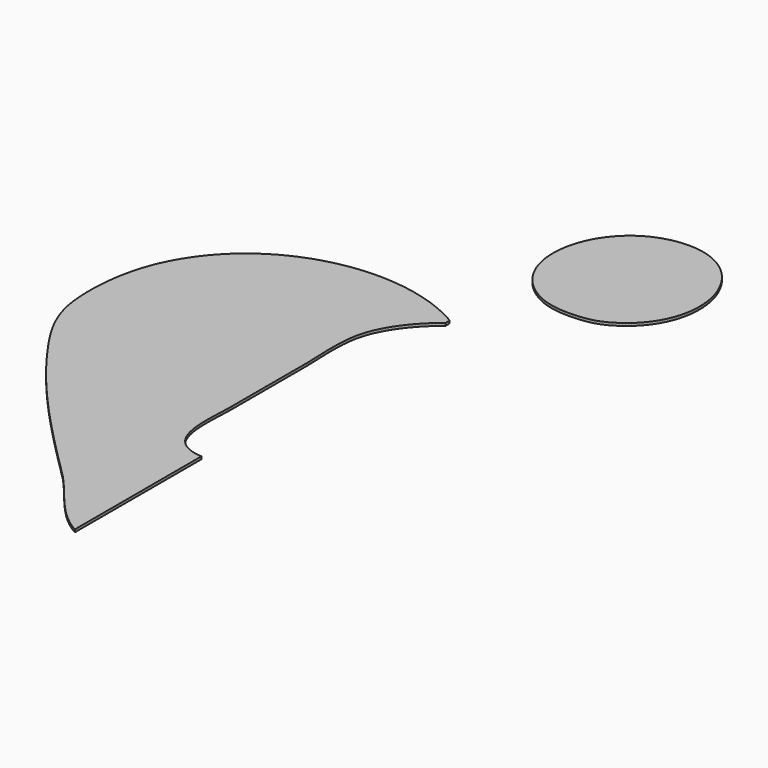
from build123d import *

# Parameters (mm, degrees)
F1_DEPTH = 25.4


with BuildPart() as f1:
    # F0 (on Top) → F1 (new body)
    with BuildSketch(Plane.XY):
        Polygon((-62.09538, 3777.15018), (-84.5185, 3774.14028), (-106.57586, 3770.5284), (-128.27, 3766.32216), (-149.59584, 3761.53426), (-170.55338, 3756.17232), (-191.14262, 3750.24904), (-211.35594, 3743.77712), (-231.19334, 3736.76926), (-250.65228, 3729.23562), (-269.73276, 3721.1889), (-288.4297, 3712.63926), (-306.74056, 3703.5994), (-324.66534, 3694.07948), (-342.19896, 3684.0922), (-359.34142, 3673.65026), (-376.08764, 3662.76382), (-392.43762, 3651.44812), (-408.38628, 3639.70824), (-423.93616, 3627.55942), (-439.07964, 3615.01436), (-453.81672, 3602.08576), (-468.14486, 3588.78124), (-482.06152, 3575.1135), (-495.5667, 3561.09524), (-508.65278, 3546.73916), (-521.3223, 3532.05542), (-533.57018, 3517.05672), (-545.39388, 3501.75322), (-556.7934, 3486.15762), (-567.76366, 3470.28008), (-578.30466, 3454.13584), (-588.41386, 3437.73252), (-598.08618, 3421.08282), (-607.32162, 3404.19944), (-616.11764, 3387.09508), (-624.46916, 3369.7799), (-632.37872, 3352.26406), (-639.84124, 3334.5628), (-646.85164, 3316.68374), (-653.41246, 3298.63958), (-659.51862, 3280.44556), (-665.17012, 3262.1093), (-670.35934, 3243.64604), (-675.08882, 3225.0634), (-679.35602, 3206.37408), (-683.15586, 3187.59332), (-686.48834, 3168.7262), (-689.34838, 3149.7905), (-691.73598, 3130.79638), (-693.6486, 3111.754), (-695.08116, 3092.67606), (-696.0362, 3073.57272), (-696.50864, 3054.45668), (-696.4934, 3035.34064), (-695.99302, 3016.23476), (-695.00242, 2997.15174), (-693.51906, 2978.10428), (-691.54294, 2959.1), (-689.06644, 2940.15414), (-686.09464, 2921.27686), (-682.61992, 2902.48086), (-678.63974, 2883.7763), (-674.1541, 2865.17588), (-669.16046, 2846.6923), (-663.65374, 2828.33572), (-657.63394, 2810.1163), (-651.09852, 2792.04928), (-644.04494, 2774.14482), (-636.47066, 2756.41308), (-628.37568, 2738.86676), (-619.75238, 2721.51856), (-610.6033, 2704.37864), (-600.92082, 2687.4597), (-590.70748, 2670.77444), (-579.96074, 2654.33048), (-568.67552, 2638.14306), (-556.85182, 2622.22234), (-544.48456, 2606.58102), (-531.5712, 2591.2318), (-518.11428, 2576.1823), (-504.10618, 2561.44776), (-489.54944, 2547.03834), (-474.43644, 2532.96674), (-458.76718, 2519.24312), (-442.53912, 2505.88018), (-425.74972, 2492.88808), (-408.39644, 2480.28206), (-390.47928, 2468.06974), (-371.99316, 2456.26382), (-352.93554, 2444.87954), (-333.30642, 2433.92452), (-313.10072, 2423.41146), (-290.22802, 2412.63678), (-266.73302, 2402.93398), (-242.67922, 2394.2675), (-218.12758, 2386.60686), (-193.13652, 2379.91904), (-167.76446, 2374.1761), (-142.0749, 2369.33994), (-116.12118, 2365.38516), (-89.96934, 2362.2762), (-63.67526, 2359.98004), (-37.29736, 2358.46874), (-10.90168, 2357.70928), (15.45844, 2357.6661), (41.72204, 2358.31126), (67.82562, 2359.61174), (93.7133, 2361.53706), (119.32666, 2364.05166), (144.59966, 2367.1276), (169.4815, 2370.73186), (194.98564, 2375.4334), (219.93352, 2381.43542), (244.348, 2388.67442), (268.25448, 2397.09452), (291.67582, 2406.63222), (314.63996, 2417.23164), (337.1723, 2428.82928), (359.29316, 2441.36926), (381.03302, 2454.78808), (402.4122, 2469.02732), (423.46118, 2484.0311), (440.87034, 2497.2264), (457.6953, 2510.76714), (473.9386, 2524.64062), (489.60278, 2538.83668), (504.69292, 2553.34516), (519.21156, 2568.1559), (533.16124, 2583.25366), (546.54958, 2598.63336), (559.37658, 2614.27976), (571.64478, 2630.18524), (583.3618, 2646.3371), (594.52764, 2662.72518), (605.14992, 2679.33678), (615.22864, 2696.16428), (624.76634, 2713.19752), (633.77064, 2730.42126), (642.24408, 2747.82788), (650.18666, 2765.40468), (657.60854, 2783.14404), (664.50718, 2801.03072), (670.88766, 2819.05964), (676.75506, 2837.21302), (682.11446, 2855.48578), (686.96586, 2873.86522), (691.31434, 2892.34118), (695.16244, 2910.90096), (698.51524, 2929.5344), (701.37528, 2948.23134), (703.74764, 2966.98162), (705.63486, 2985.77254), (707.04202, 3004.59394), (707.96912, 3023.4382), (708.42378, 3042.29008), (708.406, 3061.13942), (707.9234, 3079.9786), (706.97598, 3098.79492), (705.56882, 3117.57568), (703.707, 3136.31072), (701.39052, 3154.99242), (698.62446, 3173.60808), (695.4139, 3192.14754), (691.76138, 3210.59556), (687.67198, 3228.9496), (683.1457, 3247.19188), (678.19016, 3265.31224), (672.80536, 3283.30306), (666.99638, 3301.15164), (660.7683, 3318.85036), (654.12366, 3336.38144), (647.065, 3353.74234), (639.5974, 3370.91528), (631.72594, 3387.89264), (623.44808, 3404.66426), (614.77398, 3421.21744), (605.70364, 3437.54456), (596.24214, 3453.63038), (586.39202, 3469.46728), (576.15836, 3485.0451), (565.5437, 3500.3486), (554.55058, 3515.3727), (543.18662, 3530.10216), (531.44928, 3544.52682), (519.34872, 3558.63906), (506.8824, 3572.42618), (494.05794, 3585.87548), (480.87788, 3598.9768), (467.3473, 3611.72252), (453.4662, 3624.09994), (439.23966, 3636.09636), (424.67276, 3647.70416), (409.76804, 3658.9081), (394.53058, 3669.7031), (378.96038, 3680.07392), (363.06506, 3690.01294), (346.84462, 3699.50746), (330.30668, 3708.54478), (313.45124, 3717.11982), (296.28338, 3725.2148), (278.80564, 3732.82464), (261.0231, 3739.93664), (242.9383, 3746.5381), (224.55632, 3752.61886), (205.8797, 3758.1713), (186.91098, 3763.18272), (167.65778, 3767.64042), (148.11756, 3771.53424), (128.29794, 3774.85656), (108.20146, 3777.59468), (87.8332, 3779.7359), (67.19316, 3781.27006), (46.28896, 3782.18954), (25.12314, 3782.4791), (3.69824, 3782.13112), (-17.9832, 3781.13544), (-39.9161, 3779.47682), align=None)
        Polygon((-617.9185, 1651.81026), (-617.9185, 1702.61026), (-637.84988, 1714.0555), (-657.9235, 1725.21118), (-678.13428, 1736.0773), (-698.47714, 1746.65386), (-718.95462, 1756.94086), (-739.55656, 1766.94084), (-760.28296, 1776.64872), (-781.1262, 1786.06958), (-802.08628, 1795.20088), (-823.15558, 1804.04262), (-844.33156, 1812.5948), (-865.61168, 1820.85742), (-886.9934, 1828.83302), (-908.46656, 1836.51906), (-930.0337, 1843.913), (-951.6872, 1851.02246), (-973.42452, 1857.83982), (-995.24312, 1864.37016), (-1017.13538, 1870.61094), (-1039.1013, 1876.56216), (-1061.13326, 1882.22636), (-1083.23126, 1887.59846), (-1105.38768, 1892.68608), (-1127.59998, 1897.4816), (-1149.86562, 1901.9901), (-1172.17952, 1906.21158), (-1194.53914, 1910.14096), (-1216.9394, 1913.78332), (-1239.37522, 1917.13866), (-1261.84152, 1920.20444), (-1284.34084, 1922.98066), (-1306.86302, 1925.46986), (-1329.40552, 1927.67204), (-1351.9658, 1929.58466), (-1374.54132, 1931.20772), (-1397.12446, 1932.54376), (-1419.71268, 1933.59024), (-1442.3009, 1934.3497), (-1464.88912, 1934.82214), (-1487.46972, 1935.00502), (-1510.0427, 1934.90088), (-1532.5979, 1934.50718), (-1555.13786, 1933.82646), (-1577.65242, 1932.85872), (-1600.14412, 1931.60142), (-1622.60534, 1930.0571), (-1645.03354, 1928.22576), (-1667.4211, 1926.10486), (-1689.77056, 1923.69694), (-1712.07176, 1921.002), (-1734.3247, 1918.0175), (-1756.5243, 1914.74598), (-1778.66802, 1911.18744), (-1800.74824, 1907.34188), (-1822.76496, 1903.2093), (-1844.7131, 1898.78716), (-1866.58758, 1894.078), (-1888.38586, 1889.08182), (-1910.10286, 1883.79862), (-1931.7335, 1878.2284), (-1953.27778, 1872.37116), (-1974.73062, 1866.22436), (-1996.0844, 1859.79308), (-2017.34166, 1853.07224), (-2038.49224, 1846.06438), (-2059.5336, 1838.7695), (-2080.46574, 1831.19014), (-2101.28104, 1823.32122), (-2121.97442, 1815.16528), (-2142.54588, 1806.72232), (-2162.99034, 1797.99234), (-2183.30272, 1788.97534), (-2203.48048, 1779.67386), (-2223.516, 1770.08282), (-2243.41182, 1760.20476), (-2263.15778, 1750.04222), (-2282.75388, 1739.59012), (-2302.19504, 1728.85354), (-2321.47618, 1717.82994), (-2340.59476, 1706.51932), (-2359.54824, 1694.92168), (-2378.329, 1683.03956), (-2396.93704, 1670.86788), (-2415.36474, 1658.41172), (-2433.6121, 1645.66854), (-2451.6715, 1632.63834), (-2469.5404, 1619.32112), (-2487.21626, 1605.71942), (-2504.694, 1591.8307), (-2521.96854, 1577.65496), (-2539.03988, 1563.19474), (-2555.89786, 1548.4475), (-2572.54502, 1533.41324), (-2588.97374, 1518.0945), (-2605.18148, 1502.48874), (-2621.16062, 1486.59596), (-2636.9137, 1470.4187), (-2652.4331, 1453.95442), (-2667.71374, 1437.20312), (-2682.75562, 1420.16734), (-2697.55112, 1402.84708), (-2712.0977, 1385.23726), (-2726.39282, 1367.3455), (-2740.42886, 1349.16672), (-2754.20582, 1330.70092), (-2767.71862, 1311.95064), (-2780.96218, 1292.91334), (-2793.93396, 1273.59156), (-2806.62888, 1253.9853), (-2819.04186, 1234.09202), (-2831.1729, 1213.91172), (-2843.01692, 1193.44948), (-2854.5663, 1172.69768), (-2865.82104, 1151.66394), (-2876.77606, 1130.34318), (-2887.42882, 1108.73794), (-2897.7717, 1086.84568), (-2907.8047, 1064.67148), (-2917.5202, 1042.21026), (-2926.66674, 1019.97002), (-2935.44244, 997.40212), (-2943.84984, 974.51926), (-2951.88894, 951.33668), (-2959.56228, 927.8747), (-2966.8724, 904.1511), (-2973.8193, 880.18112), (-2980.40298, 855.98254), (-2986.62852, 831.5706), (-2992.49338, 806.96562), (-2998.0001, 782.18284), (-3003.14868, 757.24004), (-3007.9442, 732.15246), (-3012.38666, 706.94042), (-3016.47352, 681.61916), (-3020.2124, 656.20392), (-3023.59822, 630.71502), (-3026.6386, 605.1677), (-3029.32846, 579.58228), (-3031.67542, 553.97146), (-3033.6744, 528.35302), (-3035.33302, 502.74474), (-3036.64874, 477.16694), (-3037.62156, 451.63232), (-3038.25656, 426.1612), (-3038.55374, 400.76628), (-3038.51564, 375.47042), (-3038.13972, 350.28632), (-3037.43106, 325.2343), (-3036.38966, 300.32706), (-3035.01552, 275.58492), (-3033.31372, 251.02566), (-3031.28172, 226.66452), (-3028.92206, 202.52182), (-3026.23474, 178.61026), (-3022.80066, 152.75052), (-3018.72904, 127.18034), (-3014.04528, 101.88956), (-3008.76208, 76.8731), (-3002.9023, 52.1208), (-2996.47864, 27.6225), (-2989.51396, 3.37312), (-2982.02604, -20.6375), (-2974.02758, -44.41952), (-2965.54398, -67.97548), (-2956.58794, -91.32062), (-2947.17978, -114.45748), (-2937.33728, -137.39622), (-2927.08076, -160.147), (-2916.42546, -182.7149), (-2905.38916, -205.11008), (-2893.98964, -227.3427), (-2882.24976, -249.41784), (-2870.18222, -271.34312), (-2857.80734, -293.13124), (-2845.14544, -314.78728), (-2832.20922, -336.31886), (-2819.02154, -357.73614), (-2805.59764, -379.04674), (-2791.95784, -400.25828), (-2778.11738, -421.38092), (-2764.09912, -442.42228), (-2749.91576, -463.38744), (-2735.59016, -484.2891), (-2721.13756, -505.13488), (-2706.57574, -525.92986), (-2691.92248, -546.6842), (-2677.20064, -567.40806), (-2662.42292, -588.10652), (-2647.6071, -608.78974), (-2632.94622, -629.14784), (-2618.17866, -649.46276), (-2603.3095, -669.73704), (-2588.33874, -689.97068), (-2573.26638, -710.16622), (-2558.0975, -730.31858), (-2542.8321, -750.4303), (-2527.47272, -770.50392), (-2512.0219, -790.5369), (-2496.4771, -810.52924), (-2480.8434, -830.48094), (-2465.12334, -850.39454), (-2449.31692, -870.27004), (-2433.42668, -890.1049), (-2417.45262, -909.90166), (-2401.39728, -929.65778), (-2385.2632, -949.3758), (-2369.05292, -969.05572), (-2352.7639, -988.69754), (-2336.40376, -1008.29872), (-2319.96996, -1027.86434), (-2303.46504, -1047.39186), (-2286.89154, -1066.88128), (-2270.24946, -1086.3326), (-2253.54388, -1105.74582), (-2236.77226, -1125.12348), (-2219.93968, -1144.46304), (-2203.04614, -1163.7645), (-2186.09164, -1183.0304), (-2169.0838, -1202.2582), (-2152.01754, -1221.45044), (-2134.89794, -1240.60712), (-2117.72754, -1259.7257), (-2100.50634, -1278.80872), (-2083.23688, -1297.85618), (-2065.91916, -1316.86808), (-2048.55572, -1335.84188), (-2031.1491, -1354.78266), (-2013.70184, -1373.68788), (-1996.21394, -1392.55754), (-1978.6854, -1411.39164), (-1961.12384, -1430.19018), (-1943.52418, -1448.9557), (-1925.8915, -1467.68566), (-1908.22834, -1486.3826), (-1890.5347, -1505.04398), (-1872.81058, -1523.6698), (-1855.06106, -1542.2626), (-1837.28868, -1560.82238), (-1819.4909, -1579.34914), (-1801.6728, -1597.84034), (-1783.83438, -1616.30106), (-1765.97564, -1634.72622), (-1748.10166, -1653.11836), (-1730.21498, -1671.47748), (-1712.31306, -1689.80358), (-1694.40098, -1708.0992), (-1676.47874, -1726.3618), (-1658.54888, -1744.59138), (-1640.6114, -1762.78794), (-1622.67138, -1780.95402), (-1604.72628, -1799.08708), (-1586.78118, -1817.18712), (-1568.83608, -1835.25922), (-1550.89352, -1853.2983), (-1532.95604, -1871.30436), (-1515.0211, -1889.28248), (-1497.09632, -1907.22758), (-1479.17916, -1925.1422), (-1461.27216, -1943.02634), (-1443.3804, -1960.88), (-1425.4988, -1978.70318), (-1407.63498, -1996.49588), (-1389.78894, -2014.26064), (-1371.96068, -2031.99238), (-1354.15528, -2049.69618), (-1336.3702, -2067.3695), (-1319.3522, -2084.57546), (-1302.43072, -2102.231), (-1285.5956, -2120.3031), (-1268.83414, -2138.75874), (-1252.1311, -2157.55728), (-1235.47632, -2176.66824), (-1218.85456, -2196.05352), (-1202.25566, -2215.67502), (-1185.66692, -2235.49972), (-1169.0731, -2255.49206), (-1152.4615, -2275.61648), (-1135.82196, -2295.83742), (-1119.1367, -2316.11678), (-1102.3981, -2336.419), (-1085.59092, -2356.71106), (-1068.705, -2376.9574), (-1051.72256, -2397.11992), (-1034.63344, -2417.16306), (-1017.42494, -2437.0538), (-1000.08182, -2456.75404), (-982.59646, -2476.22822), (-964.95108, -2495.44078), (-947.13552, -2514.35616), (-929.13708, -2532.9388), (-910.94052, -2551.15568), (-892.53314, -2568.96616), (-873.90478, -2586.33722), (-855.0402, -2603.23076), (-835.92924, -2619.6163), (-816.55666, -2635.4532), (-796.90976, -2650.7059), (-776.97584, -2665.34392), (-756.74474, -2679.32662), (-736.19868, -2692.61844), (-715.3275, -2705.18382), (-694.1185, -2716.98974), (-694.1185, -1192.98974), (-720.76818, -1190.62754), (-746.00816, -1187.07916), (-769.87908, -1182.38524), (-792.41904, -1176.58134), (-813.6636, -1169.70048), (-833.64832, -1161.7833), (-852.4113, -1152.86028), (-869.99064, -1142.97206), (-886.4219, -1132.15166), (-901.74064, -1120.43464), (-915.98496, -1107.86164), (-929.19296, -1094.46314), (-941.4002, -1080.27724), (-952.64224, -1065.3395), (-962.95972, -1049.68548), (-972.38566, -1033.35328), (-980.9607, -1016.37592), (-988.71786, -998.79404), (-995.69778, -980.63812), (-1001.93348, -961.94626), (-1007.46306, -942.75402), (-1012.32462, -923.09696), (-1016.55626, -903.01318), (-1020.191, -882.53824), (-1023.26948, -861.70516), (-1025.82472, -840.55204), (-1027.89736, -819.11698), (-1029.52296, -797.43046), (-1030.73708, -775.53312), (-1031.57782, -753.45798), (-1032.08074, -731.24314), (-1032.28648, -708.92416), (-1032.22806, -686.5366), (-1031.94358, -664.11602), (-1031.4686, -641.69798), (-1030.84376, -619.31804), (-1030.10208, -597.0143), (-1029.28166, -574.82232), (-1028.4206, -552.77766), (-1027.55192, -530.91588), (-1026.7188, -509.27), (-1025.95426, -487.88066), (-1025.29386, -466.78342), (-1024.77824, -446.0113), (-1024.44042, -425.6024), (-1024.3185, -405.58974), (-1024.3185, 458.01026), (-1024.45312, 482.71176), (-1024.8265, 507.6317), (-1025.398, 532.74722), (-1026.12698, 558.03546), (-1026.97788, 583.47356), (-1027.90498, 609.04628), (-1028.87018, 634.72822), (-1029.83538, 660.49652), (-1030.75486, 686.33594), (-1031.5956, 712.21854), (-1032.31188, 738.12908), (-1032.8656, 764.04216), (-1033.21612, 789.93746), (-1033.32534, 815.79466), (-1033.14754, 841.59344), (-1032.6497, 867.31094), (-1031.7861, 892.92684), (-1030.51864, 918.42082), (-1028.80668, 943.77002), (-1026.60958, 968.95412), (-1023.8867, 993.95026), (-1020.59994, 1018.73812), (-1016.70866, 1043.29992), (-1012.16968, 1067.61026), (-1006.71884, 1092.31684), (-1000.37392, 1116.84816), (-993.17048, 1141.18644), (-985.13392, 1165.32152), (-976.29218, 1189.24324), (-966.67828, 1212.93382), (-956.31762, 1236.38564), (-945.24322, 1259.586), (-933.47794, 1282.5222), (-921.05734, 1305.18154), (-908.00682, 1327.55132), (-894.35432, 1349.61884), (-880.13032, 1371.37648), (-865.3653, 1392.80646), (-850.08466, 1413.89862), (-834.32142, 1434.64026), (-818.10352, 1455.02122), (-801.45636, 1475.02626), (-784.4155, 1494.64522), (-767.0038, 1513.8654), (-749.25174, 1532.67664), (-731.1898, 1551.06116), (-712.84592, 1569.01388), (-694.25058, 1586.51702), (-675.42918, 1603.56042), (-656.41728, 1620.13138), (-637.2352, 1636.2172), align=None)
    extrude(amount=-F1_DEPTH)


solid = f1.part
